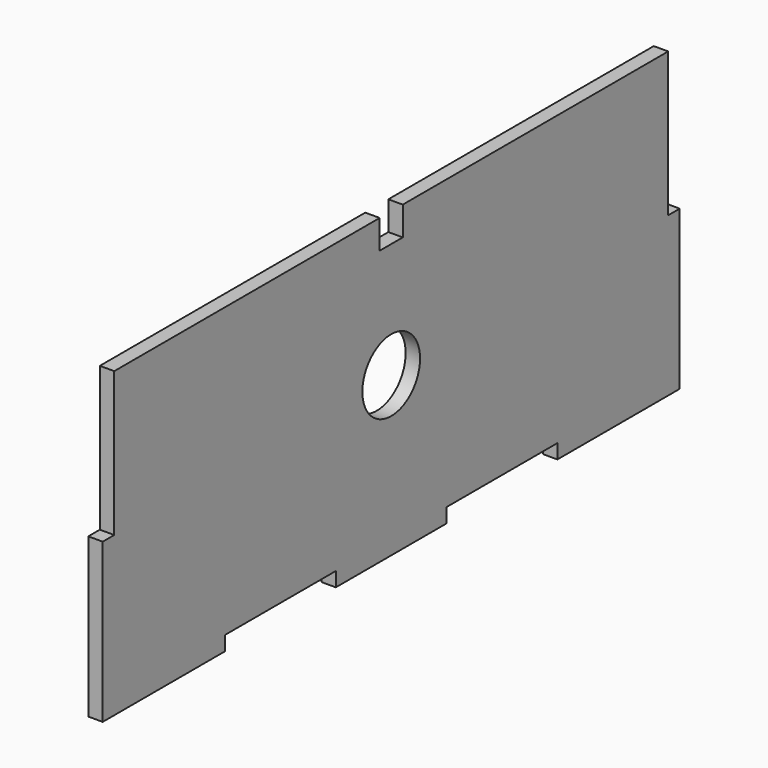
from build123d import *

# Parameters (mm, degrees)
F0_W     = 53
F0_H     = 5
F0_R     = 12.5
F0_W_2   = 48
F1_DEPTH = 5


with BuildPart() as f1:
    # F0 (on Right) → F1 (new body)
    with BuildSketch(Plane.YZ):
        with Locations((98.5, -52.5)):
            Rectangle(F0_W, F0_H)
        Polygon((72, -50), (125, -50), (125, 0), (120, 0), (120, 50), (5, 50), (5, 40), (0, 40), (-5, 40), (-5, 50), (-120, 50), (-120, 0), (-125, 0), (-125, -50), (-72, -50), (-24, -50), (24, -50), align=None)
        Circle(F0_R, mode=Mode.SUBTRACT)
        with Locations((0, -52.5)):
            Rectangle(F0_W_2, F0_H)
        with Locations((-98.5, -52.5)):
            Rectangle(F0_W, F0_H)
    extrude(amount=F1_DEPTH)


solid = f1.part
